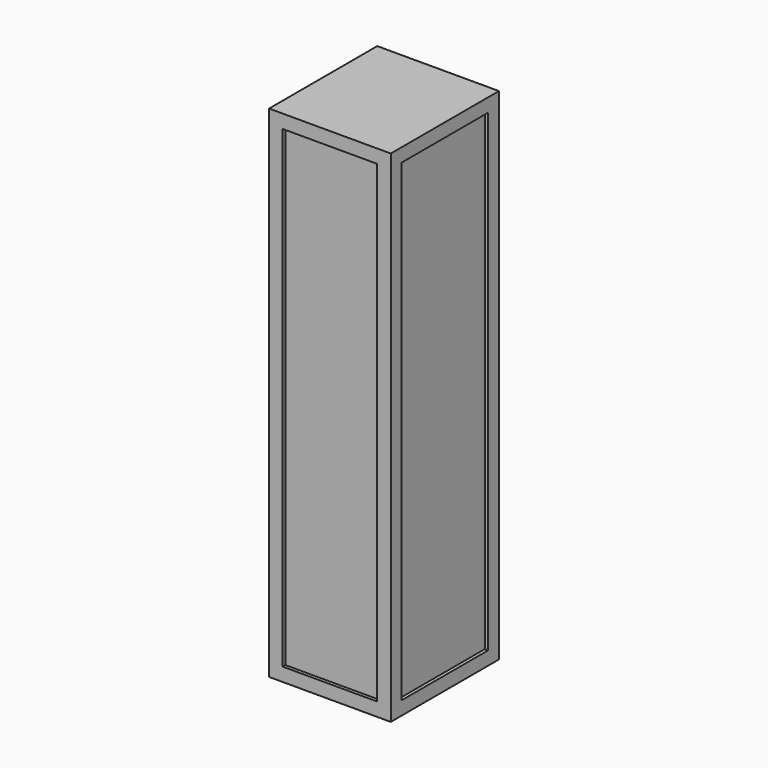
from build123d import *

# Parameters (mm, degrees)
F0_W     = 228.6
F0_H     = 254
F1_DEPTH = 939.8
F2_W     = 177.8
F2_H     = 889
F3_DEPTH = 6.35
F4_W     = 203.2
F4_H     = 889
F5_DEPTH = 6.35
F6_W     = 177.8
F6_H     = 889
F7_DEPTH = 6.35
F8_W     = 203.2
F8_H     = 889
F9_DEPTH = 6.35


with BuildPart() as f1:
    # F0 (on Top) → F1 (new body)
    with BuildSketch(Plane.XY):
        Rectangle(F0_W, F0_H)
    extrude(amount=F1_DEPTH)

    # F2 (on face) → F3 (cut)
    with BuildSketch(Plane.XZ.offset(127)):
        with Locations((0, 469.9)):
            Rectangle(F2_W, F2_H)
    extrude(amount=-F3_DEPTH, mode=Mode.SUBTRACT)

    # F4 (on face) → F5 (cut)
    with BuildSketch(Plane.YZ.offset(114.3)):
        with Locations((0, 469.9)):
            Rectangle(F4_W, F4_H)
    extrude(amount=-F5_DEPTH, mode=Mode.SUBTRACT)

    # F6 (on face) → F7 (cut)
    with BuildSketch(Plane(origin=(0, 127, 0), x_dir=(-1, 0, 0), z_dir=(0, 1, 0))):
        with Locations((0, 469.9)):
            Rectangle(F6_W, F6_H)
    extrude(amount=-F7_DEPTH, mode=Mode.SUBTRACT)

    # F8 (on face) → F9 (cut)
    with BuildSketch(Plane(origin=(-114.3, 0, 0), x_dir=(0, -1, 0), z_dir=(-1, 0, 0))):
        with Locations((0, 469.9)):
            Rectangle(F8_W, F8_H)
    extrude(amount=-F9_DEPTH, mode=Mode.SUBTRACT)


solid = f1.part
